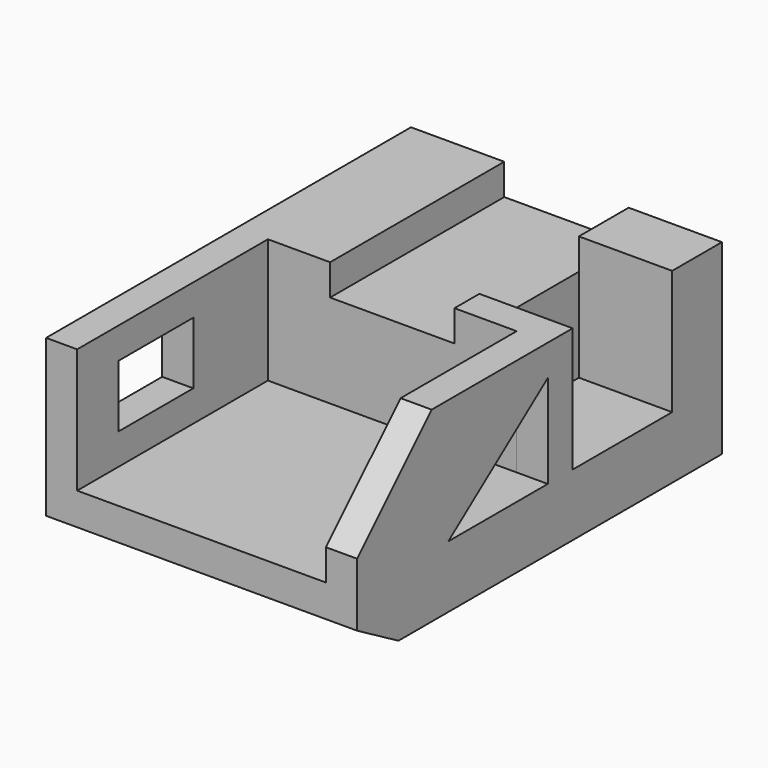
from build123d import *

# Parameters (mm, degrees)
SKETCH_W        = 60
SKETCH_H        = 88
PAD_DEPTH       = 36
SKETCH001_W     = 48
SKETCH001_H     = 47.080017
POCKET_DEPTH    = 24
SKETCH002_W     = 24
SKETCH002_H     = 11.400024
POCKET001_DEPTH = 42.001
SKETCH003_W     = 18
SKETCH003_H     = 12
POCKET002_DEPTH = 10
POCKET003_DEPTH = 60.001
POCKET004_DEPTH = 7
POCKET005_DEPTH = 8
SKETCH007_W     = 24
SKETCH007_H     = 25.720013
POCKET006_DEPTH = 18


with BuildPart() as part:
    # Sketch → Pad (new body)
    with BuildSketch(Plane.XY):
        Rectangle(SKETCH_W, SKETCH_H)
    extrude(amount=PAD_DEPTH)

    # Sketch001 → Pocket (cut)
    with BuildSketch(Plane.XY.offset(36)):
        with Locations((0, -21.540008)):
            Rectangle(SKETCH001_W, SKETCH001_H)
    extrude(amount=-POCKET_DEPTH, mode=Mode.SUBTRACT)

    # Sketch002 → Pocket001 (cut, through all)
    with BuildSketch(Plane.XZ.offset(-2)):
        with Locations((0, 35.700012)):
            Rectangle(SKETCH002_W, SKETCH002_H)
    extrude(amount=-POCKET001_DEPTH, mode=Mode.SUBTRACT)

    # Sketch003 → Pocket002 (cut)
    with BuildSketch(Plane(origin=(-30, 0, 0), x_dir=(0, -1, 0), z_dir=(-1, 0, 0))):
        with Locations((25, 24)):
            Rectangle(SKETCH003_W, SKETCH003_H)
    extrude(amount=-POCKET002_DEPTH, mode=Mode.SUBTRACT)

    # Sketch004 → Pocket003 (cut, through all)
    with BuildSketch(Plane.YZ.offset(30)):
        Polygon((-50.809662, 9.705063), (-34, 0), (-50.809662, 0), align=None)
    extrude(amount=-POCKET003_DEPTH, mode=Mode.SUBTRACT)

    # Sketch005 → Pocket004 (cut)
    with BuildSketch(Plane.YZ.offset(30)):
        Polygon((-22, 12), (2, 30), (2, 12), align=None)
    extrude(amount=-POCKET004_DEPTH, mode=Mode.SUBTRACT)

    # Sketch006 → Pocket005 (cut)
    with BuildSketch(Plane.YZ.offset(30)):
        Polygon((-44, 36), (-44, 18), (-26, 36), align=None)
    extrude(amount=-POCKET005_DEPTH, mode=Mode.SUBTRACT)

    # Sketch007 → Pocket006 (cut)
    with BuildSketch(Plane.YZ.offset(30)):
        with Locations((20, 24.860007)):
            Rectangle(SKETCH007_W, SKETCH007_H)
    extrude(amount=-POCKET006_DEPTH, mode=Mode.SUBTRACT)


solid = part.part
